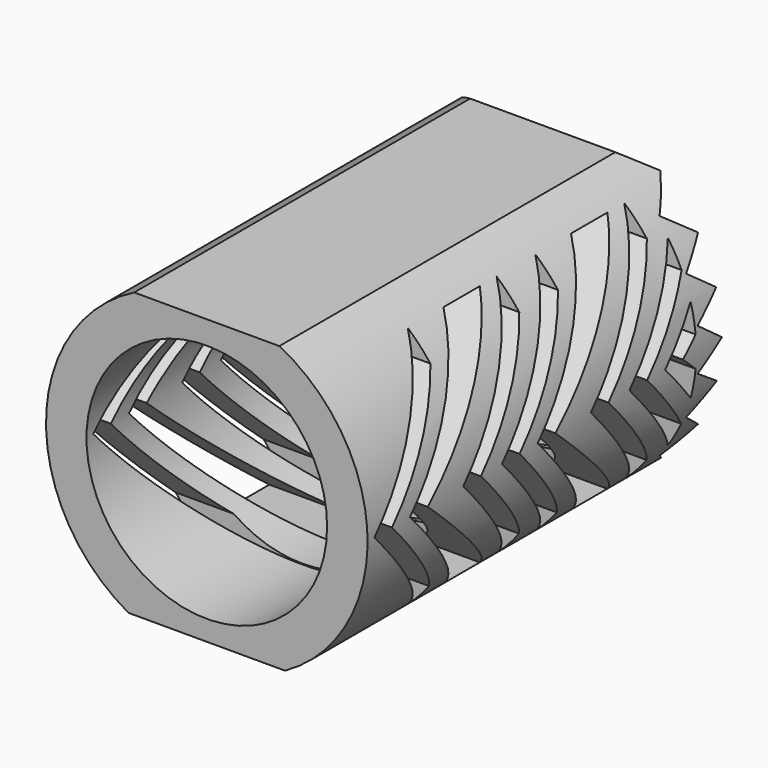
from build123d import *

# Parameters (mm, degrees)
F0_R      = 23.051918
F1_DEPTH  = 63.5
F3_DEPTH  = 254
F5_DEPTH  = 254
F6_DEPTH  = 254
F7_DEPTH  = 254
F8_R      = 17.247886
F9_DEPTH  = 254
F10_DEPTH = 5080
F11_DEPTH = 5080
F13_DEPTH = 5080
F15_DEPTH = 5080
F17_DEPTH = 5080
F19_DEPTH = 5080
F21_DEPTH = 5080
F23_DEPTH = 254
F25_DEPTH = 254


with BuildPart() as f1:
    # F0 (on Front) → F1 (new body)
    with BuildSketch(Plane.XZ):
        Circle(F0_R)
    extrude(amount=F1_DEPTH)

    # F2 (on Right) → F3 (cut)
    with BuildSketch(Plane.YZ):
        Polygon((-46.349845, 13.969996), (-46.349845, 17.429722), (-62.282804, 0), (-46.349845, -17.439601), (-46.349845, -14.168788), (-59.120179, 0), align=None)
        Polygon((-30.416886, 17.429722), (-46.349845, 0), (-30.416886, -17.439601), (-30.416886, -13.985201), (-43.193878, 0), (-30.416886, 13.975322), align=None)
        Polygon((-39.951317, 17.429722), (-55.884276, 0), (-39.951317, -17.429722), (-33.434301, -17.429722), (-52.709276, 0), (-33.434301, 17.429722), align=None)
        Polygon((-7.556886, 13.975322), (-7.556886, 17.429722), (-23.489845, 0), (-7.556886, -17.439601), (-7.556886, -13.985201), (-20.333878, 0), align=None)
        Polygon((-10.574301, -17.429722), (-29.849276, 0), (-10.574301, 17.429722), (-17.091317, 17.429722), (-33.024276, 0), (-17.091317, -17.429722), align=None)
        Polygon((-23.489845, 17.429722), (-39.422804, 0), (-23.489845, -17.439601), (-23.489845, -14.168788), (-36.260179, 0), (-23.489845, 13.969996), align=None)
        Polygon((-4.587814, -2.171562), (-6.989276, 0), (-4.587814, 2.171562), (-4.587814, 6.100322), (-10.164276, 0), (-4.587814, -6.100322), align=None)
        Polygon((-4.587814, 13.099937), (-16.562804, 0), (-4.587814, -13.107362), (-4.587814, -9.77739), (-13.400179, 0), (-4.587814, 9.64021), align=None)
        Polygon((-4.109263, 21.166762), (0, 18.144162), (0, 21.166762), align=None)
        Polygon((-4.109263, 15.121562), (0, 12.098962), (0, 18.144162), align=None)
        Polygon((0, -5.750623), (0, 0), (-4.109263, -3.021899), align=None)
        Polygon((0, -21.157499), (0, -18.134899), (-4.109263, -21.157499), align=None)
        Polygon((0, -18.134899), (0, -12.089699), (-4.109263, -15.112299), align=None)
        Polygon((0, -12.089699), (0, -5.750623), (-4.109263, -9.067099), align=None)
        Polygon((-4.109263, 3.031162), (0, 0), (0, 12.098962), (-4.109263, 9.076362), (-0.011607, 6.053762), align=None)
    extrude(amount=F3_DEPTH, mode=Mode.SUBTRACT)

    # F4 (on face) → F5 (cut)
    with BuildSketch(Plane.YZ):
        Polygon((-33.434301, 17.429722), (-39.951317, 17.429722), (-55.884276, 0), (-39.951317, -17.429722), (-33.434301, -17.429722), (-52.709276, 0), align=None)
    extrude(amount=-F5_DEPTH, mode=Mode.SUBTRACT)

    # F3_face (on face) → F6 (cut)
    with BuildSketch(Plane(origin=(0, -44.483088, 0), x_dir=(0, 1, 0), z_dir=(1, 0, 0))):
        Polygon((-1.866758, 13.969996), (-1.866758, 17.429722), (-17.799717, 0), (-1.866758, -17.439601), (-1.866758, -14.168788), (-14.637091, 0), align=None)
    extrude(amount=-F6_DEPTH, mode=Mode.SUBTRACT)

    # F3_face (on face) → F7 (cut)
    with BuildSketch(Plane(origin=(0, -44.483088, 0), x_dir=(0, 1, 0), z_dir=(1, 0, 0))):
        Polygon((14.066202, 13.975322), (14.066202, 17.429722), (-1.866758, 0), (14.066202, -17.439601), (14.066202, -13.985201), (1.28921, 0), align=None)
    extrude(amount=-F7_DEPTH, mode=Mode.SUBTRACT)

    # F8 (on Front) → F9 (cut)
    with BuildSketch(Plane.XZ):
        Circle(F8_R)
    extrude(amount=F9_DEPTH, mode=Mode.SUBTRACT)

    # F2 (on Right) → F10 (cut)
    with BuildSketch(Plane.YZ):
        Polygon((-46.349845, 13.969996), (-46.349845, 17.429722), (-62.282804, 0), (-46.349845, -17.439601), (-46.349845, -14.168788), (-59.120179, 0), align=None)
        Polygon((-30.416886, 17.429722), (-46.349845, 0), (-30.416886, -17.439601), (-30.416886, -13.985201), (-43.193878, 0), (-30.416886, 13.975322), align=None)
        Polygon((-39.951317, 17.429722), (-55.884276, 0), (-39.951317, -17.429722), (-33.434301, -17.429722), (-52.709276, 0), (-33.434301, 17.429722), align=None)
        Polygon((-7.556886, 13.975322), (-7.556886, 17.429722), (-23.489845, 0), (-7.556886, -17.439601), (-7.556886, -13.985201), (-20.333878, 0), align=None)
        Polygon((-10.574301, -17.429722), (-29.849276, 0), (-10.574301, 17.429722), (-17.091317, 17.429722), (-33.024276, 0), (-17.091317, -17.429722), align=None)
        Polygon((-23.489845, 17.429722), (-39.422804, 0), (-23.489845, -17.439601), (-23.489845, -14.168788), (-36.260179, 0), (-23.489845, 13.969996), align=None)
        Polygon((-4.587814, -2.171562), (-6.989276, 0), (-4.587814, 2.171562), (-4.587814, 6.100322), (-10.164276, 0), (-4.587814, -6.100322), align=None)
        Polygon((-4.587814, 13.099937), (-16.562804, 0), (-4.587814, -13.107362), (-4.587814, -9.77739), (-13.400179, 0), (-4.587814, 9.64021), align=None)
        Polygon((-4.109263, 21.166762), (0, 18.144162), (0, 21.166762), align=None)
        Polygon((-4.109263, 15.121562), (0, 12.098962), (0, 18.144162), align=None)
        Polygon((0, -5.750623), (0, 0), (-4.109263, -3.021899), align=None)
        Polygon((0, -21.157499), (0, -18.134899), (-4.109263, -21.157499), align=None)
        Polygon((0, -18.134899), (0, -12.089699), (-4.109263, -15.112299), align=None)
        Polygon((0, -12.089699), (0, -5.750623), (-4.109263, -9.067099), align=None)
        Polygon((-4.109263, 3.031162), (0, 0), (0, 12.098962), (-4.109263, 9.076362), (-0.011607, 6.053762), align=None)
    extrude(amount=-F10_DEPTH, mode=Mode.SUBTRACT)

    # F2 (on Right) → F11 (cut)
    with BuildSketch(Plane.YZ):
        Polygon((-46.349845, 13.969996), (-46.349845, 17.429722), (-62.282804, 0), (-46.349845, -17.439601), (-46.349845, -14.168788), (-59.120179, 0), align=None)
        Polygon((-30.416886, 17.429722), (-46.349845, 0), (-30.416886, -17.439601), (-30.416886, -13.985201), (-43.193878, 0), (-30.416886, 13.975322), align=None)
        Polygon((-39.951317, 17.429722), (-55.884276, 0), (-39.951317, -17.429722), (-33.434301, -17.429722), (-52.709276, 0), (-33.434301, 17.429722), align=None)
        Polygon((-7.556886, 13.975322), (-7.556886, 17.429722), (-23.489845, 0), (-7.556886, -17.439601), (-7.556886, -13.985201), (-20.333878, 0), align=None)
        Polygon((-10.574301, -17.429722), (-29.849276, 0), (-10.574301, 17.429722), (-17.091317, 17.429722), (-33.024276, 0), (-17.091317, -17.429722), align=None)
        Polygon((-23.489845, 17.429722), (-39.422804, 0), (-23.489845, -17.439601), (-23.489845, -14.168788), (-36.260179, 0), (-23.489845, 13.969996), align=None)
        Polygon((-4.587814, -2.171562), (-6.989276, 0), (-4.587814, 2.171562), (-4.587814, 6.100322), (-10.164276, 0), (-4.587814, -6.100322), align=None)
        Polygon((-4.587814, 13.099937), (-16.562804, 0), (-4.587814, -13.107362), (-4.587814, -9.77739), (-13.400179, 0), (-4.587814, 9.64021), align=None)
        Polygon((-4.109263, 21.166762), (0, 18.144162), (0, 21.166762), align=None)
        Polygon((-4.109263, 15.121562), (0, 12.098962), (0, 18.144162), align=None)
        Polygon((0, -5.750623), (0, 0), (-4.109263, -3.021899), align=None)
        Polygon((0, -21.157499), (0, -18.134899), (-4.109263, -21.157499), align=None)
        Polygon((0, -18.134899), (0, -12.089699), (-4.109263, -15.112299), align=None)
        Polygon((0, -12.089699), (0, -5.750623), (-4.109263, -9.067099), align=None)
        Polygon((-4.109263, 3.031162), (0, 0), (0, 12.098962), (-4.109263, 9.076362), (-0.011607, 6.053762), align=None)
    extrude(amount=F11_DEPTH, mode=Mode.SUBTRACT)

    # F12 (on Right) → F13 (cut)
    with BuildSketch(Plane.YZ):
        Polygon((-8.494198, 24.551379), (0, 18.141752), (3.361515, 25.43113), align=None)
    extrude(amount=F13_DEPTH, mode=Mode.SUBTRACT)

    # F14 (on Right) → F15 (cut)
    with BuildSketch(Plane.YZ):
        Polygon((-7.875598, 23.938177), (0, 18.143227), (0.71995, 23.938177), align=None)
    extrude(amount=-F15_DEPTH, mode=Mode.SUBTRACT)

    # F16 (on Right) → F17 (cut)
    with BuildSketch(Plane.YZ):
        Polygon((0.883967, -19.948153), (-3.412959, -20.7079), (-7.921617, -23.597427), (0.709598, -23.597427), align=None)
    extrude(amount=F17_DEPTH, mode=Mode.SUBTRACT)

    # F18 (on Right) → F19 (cut)
    with BuildSketch(Plane.YZ):
        Polygon((1.588952, -20.219694), (-3.578923, -20.851482), (-9.409101, -24.303792), (1.722839, -23.898674), align=None)
    extrude(amount=-F19_DEPTH, mode=Mode.SUBTRACT)

    # F20 (on Right) → F21 (cut)
    with BuildSketch(Plane.YZ):
        Polygon((-81.117839, 20.666661), (2.371704, 20.666661), (-0.58742, 26.443996), (-67.308597, 26.443996), align=None)
    extrude(amount=-F21_DEPTH, mode=Mode.SUBTRACT)

    # F22 (on Front) → F23 (cut)
    with BuildSketch(Plane.XZ):
        Polygon((-12.842488, 28.822124), (-13.806027, 20.569207), (15.770415, 20.569207), (14.639305, 28.822124), align=None)
    extrude(amount=F23_DEPTH, mode=Mode.SUBTRACT)

    # F24 (on Front) → F25 (cut)
    with BuildSketch(Plane.XZ):
        Polygon((26.822882, -25.66673), (27.325599, -20.136859), (-16.410671, -20.136859), (-18.589105, -25.66673), align=None)
    extrude(amount=F25_DEPTH, mode=Mode.SUBTRACT)


solid = f1.part
